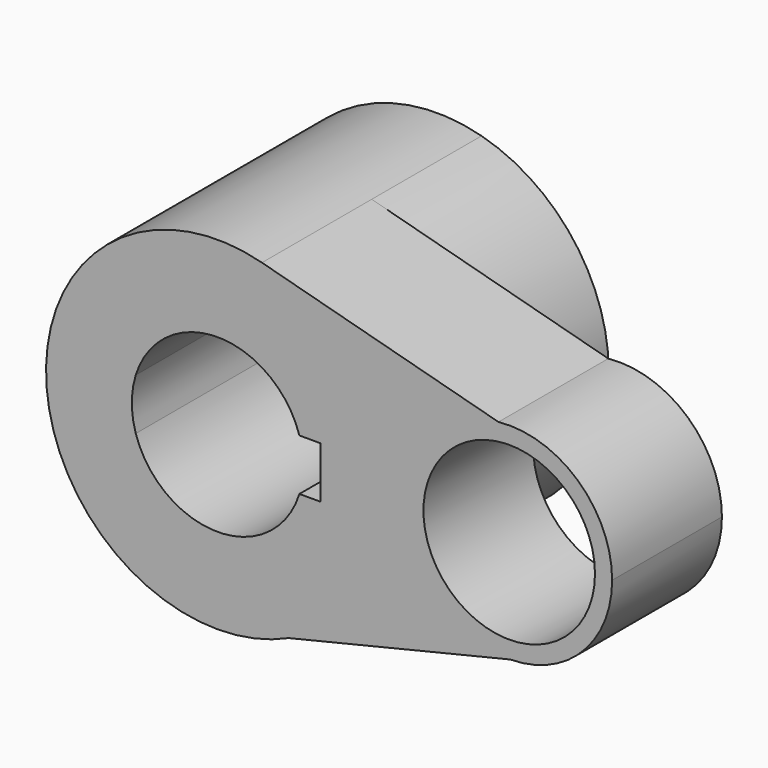
from build123d import *

# Parameters (mm, degrees)
F0_R     = 15.875
F1_DEPTH = 25.4
F2_DEPTH = 25.4


with BuildPart() as f1:
    # F0 (on Front) → F1 (new body)
    with BuildSketch(Plane.XZ):
        with BuildLine():
            ThreePointArc((13.163634, -28.892581), (26.702134, -17.177269), (31.75, 0))
            ThreePointArc((31.75, 0), (25.188056, 19.329365), (8.214608, 30.668921))
            ThreePointArc((8.214608, 30.668921), (-31.640961, -2.62908), (13.163634, -28.892581))
        make_face()
        with BuildLine():
            ThreePointArc((-15.143785, 4.7625), (0, 15.875), (15.143785, 4.7625))
            Line((15.143785, 4.7625), (19.05, 4.7625))
            Line((19.05, 4.7625), (19.05, -4.7625))
            Line((19.05, -4.7625), (15.143785, -4.7625))
            ThreePointArc((15.143785, -4.7625), (0, -15.875), (-15.143785, -4.7625))
            Line((-15.143785, -4.7625), (-19.05, -4.7625))
            Line((-19.05, -4.7625), (-19.05, 4.7625))
            Line((-19.05, 4.7625), (-15.143785, 4.7625))
        make_face(mode=Mode.SUBTRACT)
        with BuildLine():
            ThreePointArc((73.025, 0), (66.721746, 14.157082), (51.983218, 18.945588))
            ThreePointArc((51.983218, 18.945588), (34.956217, -1.090134), (54.161027, -19.049092))
            ThreePointArc((54.161027, -19.049092), (67.510995, -13.404452), (73.025, 0))
        make_face()
        with Locations((53.975, 0)):
            Circle(F0_R, mode=Mode.SUBTRACT)
        with BuildLine():
            ThreePointArc((8.214608, 30.668921), (25.188056, 19.329365), (31.75, 0))
            ThreePointArc((31.75, 0), (26.702134, -17.177269), (13.163634, -28.892581))
            Line((13.163634, -28.892581), (54.161027, -19.049092))
            ThreePointArc((54.161027, -19.049092), (34.956217, -1.090134), (51.983218, 18.945588))
            Line((51.983218, 18.945588), (8.214608, 30.668921))
        make_face()
        with BuildLine():
            ThreePointArc((-15.143785, -4.7625), (-15.875, 0), (-15.143785, 4.7625))
            Line((-15.143785, 4.7625), (-19.05, 4.7625))
            Line((-19.05, 4.7625), (-19.05, -4.7625))
            Line((-19.05, -4.7625), (-15.143785, -4.7625))
        make_face()
    extrude(amount=F1_DEPTH)

    # F0 (on Front) → F2 (join)
    with BuildSketch(Plane.XZ):
        with BuildLine():
            ThreePointArc((13.163634, -28.892581), (26.702134, -17.177269), (31.75, 0))
            ThreePointArc((31.75, 0), (25.188056, 19.329365), (8.214608, 30.668921))
            ThreePointArc((8.214608, 30.668921), (-31.640961, -2.62908), (13.163634, -28.892581))
        make_face()
        with BuildLine():
            ThreePointArc((-15.143785, 4.7625), (0, 15.875), (15.143785, 4.7625))
            Line((15.143785, 4.7625), (19.05, 4.7625))
            Line((19.05, 4.7625), (19.05, -4.7625))
            Line((19.05, -4.7625), (15.143785, -4.7625))
            ThreePointArc((15.143785, -4.7625), (0, -15.875), (-15.143785, -4.7625))
            Line((-15.143785, -4.7625), (-19.05, -4.7625))
            Line((-19.05, -4.7625), (-19.05, 4.7625))
            Line((-19.05, 4.7625), (-15.143785, 4.7625))
        make_face(mode=Mode.SUBTRACT)
        with BuildLine():
            ThreePointArc((-15.143785, -4.7625), (-15.875, 0), (-15.143785, 4.7625))
            Line((-15.143785, 4.7625), (-19.05, 4.7625))
            Line((-19.05, 4.7625), (-19.05, -4.7625))
            Line((-19.05, -4.7625), (-15.143785, -4.7625))
        make_face()
    extrude(amount=-F2_DEPTH)


solid = f1.part
